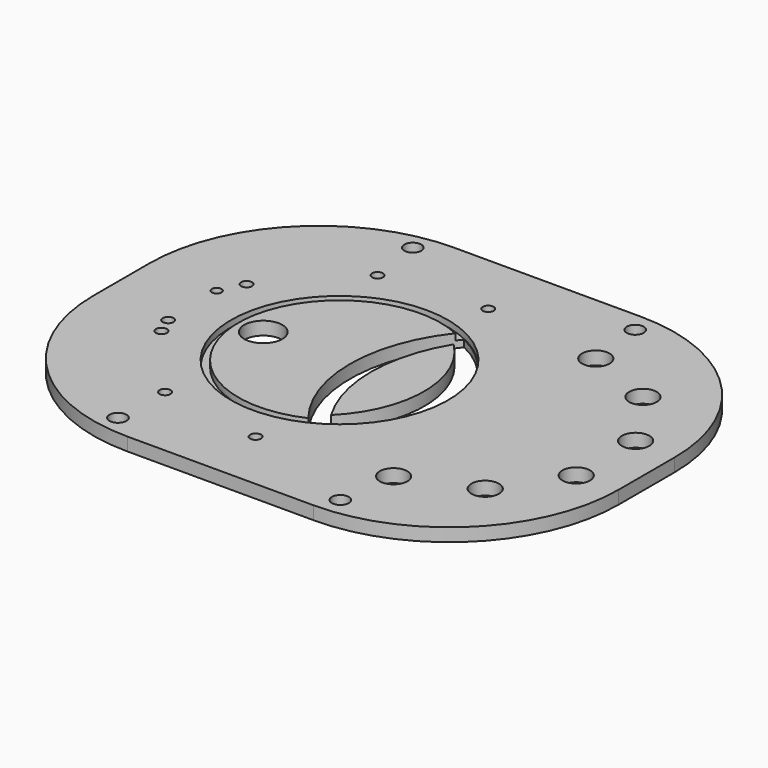
from build123d import *

# Parameters (mm, degrees)
CYLINDER180_R             = 6.5
CYLINDER180_DEPTH         = 10
ARRAY003_COUNT            = 6
ARRAY003_ANGLE            = 170
CYLINDER178_R             = 2.579687
CYLINDER178_DEPTH         = 19.5
ARRAY002_COUNT            = 6
ARRAY002_ANGLE            = 208
ARRAY002_PLACEMENT_ANGLE  = 109
CYLINDER185_R             = 47.75
CYLINDER185_DEPTH         = 3
CYLINDER179_R             = 51.25
CYLINDER179_DEPTH         = 3
CYLINDER177_R             = 2.28
CYLINDER177_DEPTH         = 29
CYLINDER181_R             = 2.58
CYLINDER181_DEPTH         = 29
CYLINDER183_R             = 9
CYLINDER183_DEPTH         = 21
CYLINDER182_R             = 4
CYLINDER182_DEPTH         = 10
CYLINDER184_R             = 4
CYLINDER184_DEPTH         = 10
CYLINDER187_R             = 4
CYLINDER187_DEPTH         = 10
CYLINDER175_R             = 4
CYLINDER175_DEPTH         = 10
CYLINDER186_R             = 51
CYLINDER186_DEPTH         = 20
CYLINDER176_R             = 70.0875
CYLINDER176_DEPTH         = 20
BOX002_W                  = 193
BOX002_H                  = 248
BOX002_DEPTH              = 6.2
FILLET001_R               = 80
CUT024_PLACEMENT_ANGLE    = 180
CYLINDER174_R             = 51
CYLINDER174_DEPTH         = 20
CYLINDER173_R             = 70.0875
CYLINDER173_DEPTH         = 6.2
FUSION003_PLACEMENT_ANGLE = 90


with BuildPart() as array003:
    # Cylinder180 → Cylinder180 (new body)
    with BuildSketch(Plane(origin=(60, 181, 0), x_dir=(1, 0, 0), z_dir=(0, 0, 1))):
        Circle(CYLINDER180_R)
    extrude(amount=CYLINDER180_DEPTH)

    # Array003: Array003 ×6 about axis
    array003_axis = Axis((0, 176, 0), (0, 0, 1))


with BuildPart() as array003_1:
    add(array003.part)
    for i in range(1, ARRAY003_COUNT):
        add(array003.part.rotate(array003_axis, i * ARRAY003_ANGLE / (ARRAY003_COUNT - 1)))


with BuildPart() as array003_2:
    # Array003 placement: moved
    add(array003_1.part.moved(Location((0, -5, 0))))


with BuildPart() as obj1:
    # Cylinder178 → Cylinder178 (new body)
    with BuildSketch(Plane(origin=(36.025, 58.5, -4), x_dir=(1, 0, 0), z_dir=(0, 0, 1))):
        Circle(CYLINDER178_R)
    extrude(amount=CYLINDER178_DEPTH)

    # Array002: obj1 ×6 about axis
    array002_axis = Axis((0, 0, 0), (0, 0, 1))


with BuildPart() as obj1_1:
    add(obj1.part)
    for i in range(1, ARRAY002_COUNT):
        add(obj1.part.rotate(array002_axis, i * ARRAY002_ANGLE / (ARRAY002_COUNT - 1)))


with BuildPart() as obj1_2:
    # Array002 placement: moved
    add(obj1_1.part.moved(Location((0, 102, 0))).rotate(Axis((0, 102, 0), (0, 0, 1)), ARRAY002_PLACEMENT_ANGLE))


with BuildPart() as flange004:
    # Cylinder185 → Cylinder185 (new body)
    with BuildSketch(Plane(origin=(0, 68, 0), x_dir=(1, 0, 0), z_dir=(0, 0, 1))):
        Circle(CYLINDER185_R)
    extrude(amount=CYLINDER185_DEPTH)


with BuildPart() as centeringringgroove001:
    # Cylinder179 → Cylinder179 (new body)
    with BuildSketch(Plane(origin=(0, 68, 0), x_dir=(1, 0, 0), z_dir=(0, 0, 1))):
        Circle(CYLINDER179_R)
    extrude(amount=CYLINDER179_DEPTH)

    # Cut023: cut Flange004
    add(flange004.part, mode=Mode.SUBTRACT)


with BuildPart() as centeringringgroove001_1:
    # Cut023 placement: moved
    add(centeringringgroove001.part.moved(Location((0, 35, 0))))


with BuildPart() as cylinder176:
    # Cylinder177 → Cylinder177 (new body)
    with BuildSketch(Plane(origin=(15, 33, -9), x_dir=(1, 0, 0), z_dir=(0, 0, 1))):
        Circle(CYLINDER177_R)
    extrude(amount=CYLINDER177_DEPTH)


with BuildPart() as cylinder178:
    # Cylinder181 → Cylinder181 (new body)
    with BuildSketch(Plane(origin=(-14.5, 33.7, -7), x_dir=(1, 0, 0), z_dir=(0, 0, 1))):
        Circle(CYLINDER181_R)
    extrude(amount=CYLINDER181_DEPTH)


with BuildPart() as cylinder180:
    # Cylinder183 → Cylinder183 (new body)
    with BuildSketch(Plane(origin=(0, 67, -4), x_dir=(1, 0, 0), z_dir=(0, 0, 1))):
        Circle(CYLINDER183_R)
    extrude(amount=CYLINDER183_DEPTH)


with BuildPart() as cylinder179:
    # Cylinder182 → Cylinder182 (new body)
    with BuildSketch(Plane(origin=(-87, 173, 0), x_dir=(1, 0, 0), z_dir=(0, 0, 1))):
        Circle(CYLINDER182_R)
    extrude(amount=CYLINDER182_DEPTH)


with BuildPart() as cylinder181:
    # Cylinder184 → Cylinder184 (new body)
    with BuildSketch(Plane(origin=(87, 68, 0), x_dir=(1, 0, 0), z_dir=(0, 0, 1))):
        Circle(CYLINDER184_R)
    extrude(amount=CYLINDER184_DEPTH)


with BuildPart() as cylinder187:
    # Cylinder187 → Cylinder187 (new body)
    with BuildSketch(Plane(origin=(-87, 68, 0), x_dir=(1, 0, 0), z_dir=(0, 0, 1))):
        Circle(CYLINDER187_R)
    extrude(amount=CYLINDER187_DEPTH)


with BuildPart() as cylinder175:
    # Cylinder175 → Cylinder175 (new body)
    with BuildSketch(Plane(origin=(87, 173, 0), x_dir=(1, 0, 0), z_dir=(0, 0, 1))):
        Circle(CYLINDER175_R)
    extrude(amount=CYLINDER175_DEPTH)


with BuildPart() as cylinder186:
    # Cylinder186 → Cylinder186 (new body)
    with BuildSketch(Plane(origin=(0, 74, 0), x_dir=(1, 0, 0), z_dir=(0, 0, 1))):
        Circle(CYLINDER186_R)
    extrude(amount=CYLINDER186_DEPTH)


with BuildPart() as fusion004:
    # Cylinder176 → Cylinder176 (new body)
    with BuildSketch(Plane(origin=(0, 149, 0), x_dir=(1, 0, 0), z_dir=(0, 0, 1))):
        Circle(CYLINDER176_R)
    extrude(amount=CYLINDER176_DEPTH)

    # Common002: intersect Cylinder186
    add(cylinder186.part, mode=Mode.INTERSECT)


with BuildPart() as fusion004_1:
    # Common002 placement: moved
    add(fusion004.part.moved(Location((0, 29, 0))))

    # Fusion005: union obj1, CenteringRingGroove001, Cylinder176, Cylinder178, Cylinder180, Cylinder179, Cylinder181, Cylinder187, Cylinder175
    add(obj1_2.part)
    add(centeringringgroove001_1.part)
    add(cylinder176.part)
    add(cylinder178.part)
    add(cylinder180.part)
    add(cylinder179.part)
    add(cylinder181.part)
    add(cylinder187.part)
    add(cylinder175.part)

    # Fusion004: union Array003
    add(array003_2.part)


with BuildPart() as cut024:
    # Box002 → Box002 (new body)
    with BuildSketch(Plane(origin=(-96.5, 0, 0), x_dir=(1, 0, 0), z_dir=(0, 0, 1))):
        with Locations((96.5, 124)):
            Rectangle(BOX002_W, BOX002_H)
    extrude(amount=BOX002_DEPTH)

    # Fillet001
    fillet001_edges = [cut024.edges().sort_by_distance(p)[0] for p in [
        (-96.5, 0, 3.1),
        (-96.5, 248, 3.1),
        (96.5, 0, 3.1),
        (96.5, 248, 3.1),
    ]]
    fillet(fillet001_edges, radius=FILLET001_R)

    # Cut024: cut Fusion004
    add(fusion004_1.part, mode=Mode.SUBTRACT)


with BuildPart() as cut024_1:
    # Cut024 placement: moved
    add(cut024.part.moved(Location((0, 0, 6.2))).rotate(Axis((0, 0, 6.2), (0, 1, 0)), CUT024_PLACEMENT_ANGLE))


with BuildPart() as cylinder174:
    # Cylinder174 → Cylinder174 (new body)
    with BuildSketch(Plane(origin=(0, 63, 0), x_dir=(1, 0, 0), z_dir=(0, 0, 1))):
        Circle(CYLINDER174_R)
    extrude(amount=CYLINDER174_DEPTH)


with BuildPart() as model_fusion004:
    # Cylinder173 → Cylinder173 (new body)
    with BuildSketch(Plane(origin=(0, 159, 0), x_dir=(1, 0, 0), z_dir=(0, 0, 1))):
        Circle(CYLINDER173_R)
    extrude(amount=CYLINDER173_DEPTH)

    # Common003: intersect Cylinder174
    add(cylinder174.part, mode=Mode.INTERSECT)


with BuildPart() as model_fusion004_1:
    # Common003 placement: moved
    add(model_fusion004.part.moved(Location((0, 29, 0))))

    # Fusion003: union Cut024
    add(cut024_1.part)


with BuildPart() as model_fusion004_2:
    # Fusion003 placement: moved
    add(model_fusion004_1.part.rotate(Axis((0, 0, 0), (0, 0, -1)), FUSION003_PLACEMENT_ANGLE))


solid = model_fusion004_2.part
